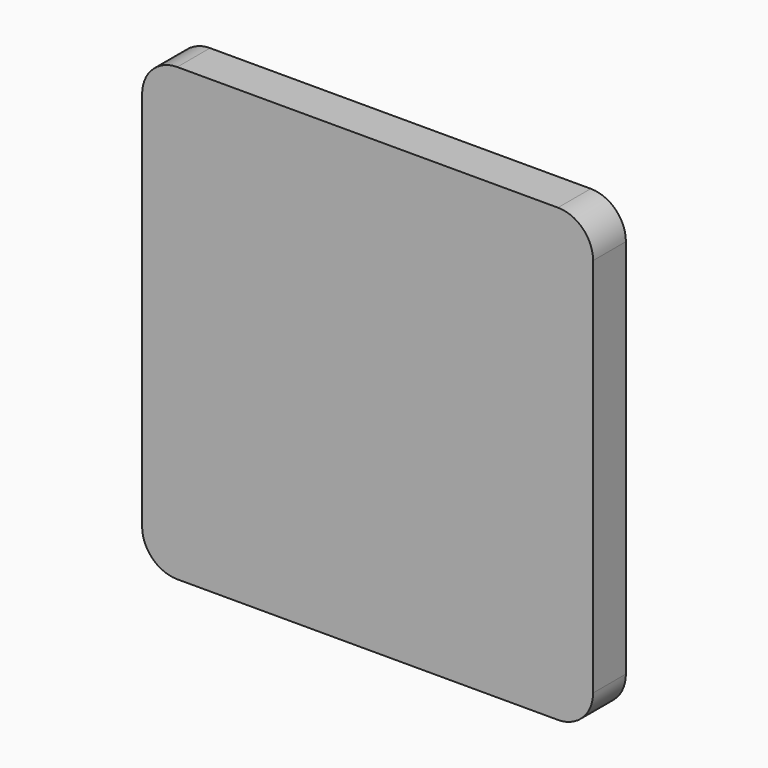
from build123d import *

# Parameters (mm, degrees)
F1_DEPTH = 5
F3_DEPTH = 1
F5_DEPTH = 1


with BuildPart() as f1:
    # F0 (on Front) → F1 (new body)
    with BuildSketch(Plane.XZ):
        with BuildLine():
            Line((-32.5, -38.5), (32.5, -38.5))
            ThreePointArc((32.5, -38.5), (36.7426406871, -36.7426406871), (38.5, -32.5))
            Line((38.5, -32.5), (38.5, 32.5))
            ThreePointArc((38.5, 32.5), (36.7426406871, 36.7426406871), (32.5, 38.5))
            Line((32.5, 38.5), (-32.5, 38.5))
            ThreePointArc((-32.5, 38.5), (-36.7426406871, 36.7426406871), (-38.5, 32.5))
            Line((-38.5, 32.5), (-38.5, -32.5))
            ThreePointArc((-38.5, -32.5), (-36.7426406871, -36.7426406871), (-32.5, -38.5))
        make_face()
        with BuildLine():
            ThreePointArc((37.5, -32.5), (36.0355339059, -36.0355339059), (32.5, -37.5))
            Line((32.5, -37.5), (-32.5, -37.5))
            ThreePointArc((-32.5, -37.5), (-36.0355339059, -36.0355339059), (-37.5, -32.5))
            Line((-37.5, -32.5), (-37.5, 32.5))
            ThreePointArc((-37.5, 32.5), (-36.0355339059, 36.0355339059), (-32.5, 37.5))
            Line((-32.5, 37.5), (32.5, 37.5))
            ThreePointArc((32.5, 37.5), (36.0355339059, 36.0355339059), (37.5, 32.5))
            Line((37.5, 32.5), (37.5, -32.5))
        make_face(mode=Mode.SUBTRACT)
    extrude(amount=F1_DEPTH)

    # F2 (on face) → F3 (join)
    with BuildSketch(Plane.XZ.offset(5)):
        with BuildLine():
            ThreePointArc((-38.5, -32.5), (-36.7426406871, -36.7426406871), (-32.5, -38.5))
            Line((-32.5, -38.5), (32.5, -38.5))
            ThreePointArc((32.5, -38.5), (36.7426406871, -36.7426406871), (38.5, -32.5))
            Line((38.5, -32.5), (38.5, 32.5))
            ThreePointArc((38.5, 32.5), (36.7426406871, 36.7426406871), (32.5, 38.5))
            Line((32.5, 38.5), (-32.5, 38.5))
            ThreePointArc((-32.5, 38.5), (-36.7426406871, 36.7426406871), (-38.5, 32.5))
            Line((-38.5, 32.5), (-38.5, -32.5))
        make_face()
        with BuildLine():
            Line((37.5, 32.5), (37.5, -32.5))
            ThreePointArc((37.5, -32.5), (36.0355339059, -36.0355339059), (32.5, -37.5))
            Line((32.5, -37.5), (-32.5, -37.5))
            ThreePointArc((-32.5, -37.5), (-36.0355339059, -36.0355339059), (-37.5, -32.5))
            Line((-37.5, -32.5), (-37.5, 32.5))
            ThreePointArc((-37.5, 32.5), (-36.0355339059, 36.0355339059), (-32.5, 37.5))
            Line((-32.5, 37.5), (32.5, 37.5))
            ThreePointArc((32.5, 37.5), (36.0355339059, 36.0355339059), (37.5, 32.5))
        make_face(mode=Mode.SUBTRACT)
        with BuildLine():
            ThreePointArc((32.5, -37.5), (36.0355339059, -36.0355339059), (37.5, -32.5))
            Line((37.5, -32.5), (37.5, 32.5))
            ThreePointArc((37.5, 32.5), (36.0355339059, 36.0355339059), (32.5, 37.5))
            Line((32.5, 37.5), (-32.5, 37.5))
            ThreePointArc((-32.5, 37.5), (-36.0355339059, 36.0355339059), (-37.5, 32.5))
            Line((-37.5, 32.5), (-37.5, -32.5))
            ThreePointArc((-37.5, -32.5), (-36.0355339059, -36.0355339059), (-32.5, -37.5))
            Line((-32.5, -37.5), (32.5, -37.5))
        make_face()
    extrude(amount=F3_DEPTH)

    # F4 (on face) → F5 (join)
    with BuildSketch(Plane(origin=(0, 0, 0), x_dir=(-1, 0, 0), z_dir=(0, 1, 0))):
        with BuildLine():
            ThreePointArc((-38.5, -32.5), (-36.7426406871, -36.7426406871), (-32.5, -38.5))
            Line((-32.5, -38.5), (32.5, -38.5))
            ThreePointArc((32.5, -38.5), (36.7426406871, -36.7426406871), (38.5, -32.5))
            Line((38.5, -32.5), (38.5, 32.5))
            ThreePointArc((38.5, 32.5), (36.7426406871, 36.7426406871), (32.5, 38.5))
            Line((32.5, 38.5), (-32.5, 38.5))
            ThreePointArc((-32.5, 38.5), (-36.7426406871, 36.7426406871), (-38.5, 32.5))
            Line((-38.5, 32.5), (-38.5, -32.5))
        make_face()
        with BuildLine():
            Line((32.5, -37.5), (-32.5, -37.5))
            ThreePointArc((-32.5, -37.5), (-36.0355339059, -36.0355339059), (-37.5, -32.5))
            Line((-37.5, -32.5), (-37.5, 32.5))
            ThreePointArc((-37.5, 32.5), (-36.0355339059, 36.0355339059), (-32.5, 37.5))
            Line((-32.5, 37.5), (32.5, 37.5))
            ThreePointArc((32.5, 37.5), (36.0355339059, 36.0355339059), (37.5, 32.5))
            Line((37.5, 32.5), (37.5, -32.5))
            ThreePointArc((37.5, -32.5), (36.0355339059, -36.0355339059), (32.5, -37.5))
        make_face(mode=Mode.SUBTRACT)
        with BuildLine():
            ThreePointArc((-37.5, -32.5), (-36.0355339059, -36.0355339059), (-32.5, -37.5))
            Line((-32.5, -37.5), (32.5, -37.5))
            ThreePointArc((32.5, -37.5), (36.0355339059, -36.0355339059), (37.5, -32.5))
            Line((37.5, -32.5), (37.5, 32.5))
            ThreePointArc((37.5, 32.5), (36.0355339059, 36.0355339059), (32.5, 37.5))
            Line((32.5, 37.5), (-32.5, 37.5))
            ThreePointArc((-32.5, 37.5), (-36.0355339059, 36.0355339059), (-37.5, 32.5))
            Line((-37.5, 32.5), (-37.5, -32.5))
        make_face()
    extrude(amount=F5_DEPTH)


solid = f1.part
